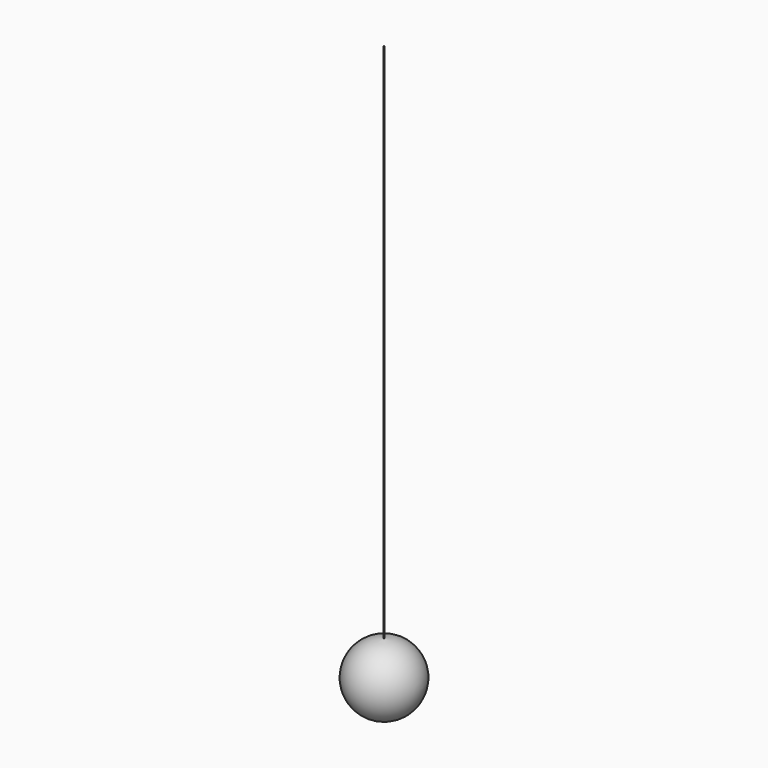
from build123d import *

# Parameters (mm, degrees)
F2_R     = 0.5
F3_DEPTH = 500


with BuildPart() as f1:
    # F0 (on Top) → F1 (revolve)
    with BuildSketch(Plane.XY):
        with BuildLine():
            Line((0, 0), (31.238385, 0))
            ThreePointArc((31.238385, 0), (0, 31.238385), (-31.238385, 0))
            Line((-31.238385, 0), (0, 0))
        make_face()
    revolve(axis=Axis((15.619193, 0, 0), (1, 0, 0)))

    # F2 (on Top) → F3 (join)
    with BuildSketch(Plane.XY):
        Circle(F2_R)
    extrude(amount=F3_DEPTH)


solid = f1.part
